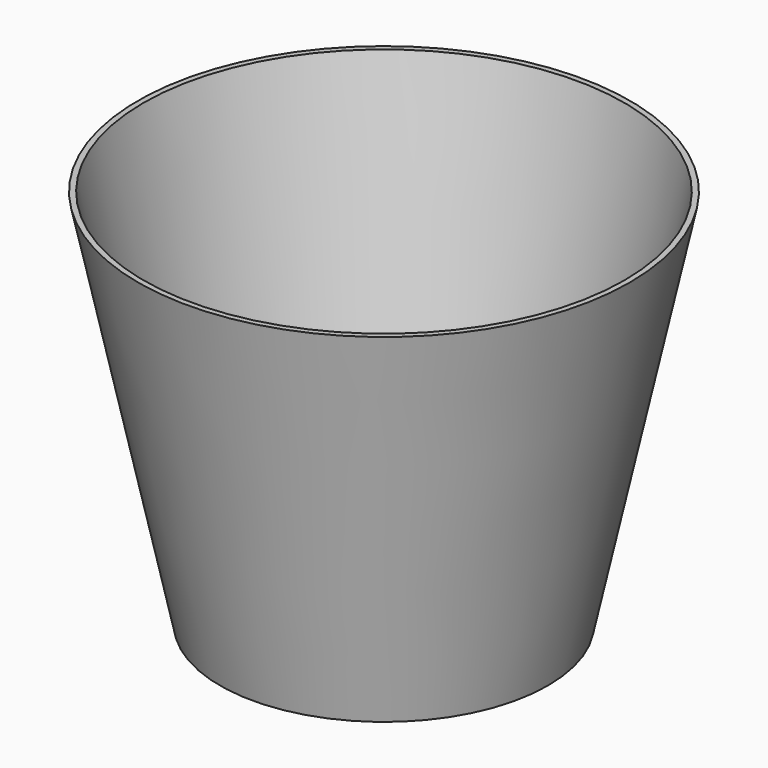
from build123d import *

# Parameters (mm, degrees)
F2_R = 114.3
F0_R = 76.2
F4_T = -2.54


with BuildPart() as f3:
    # F2 (on offset) → F3 section 0
    with BuildSketch(Plane.XY.offset(177.292)):
        Circle(F2_R)
    # F0 (on Top) → F3 section 1
    with BuildSketch(Plane.XY):
        Circle(F0_R)
    loft()

    # F4
    f4_openings = [f3.faces().sort_by_distance(p)[0] for p in [
        (0, 0, 177.292),
    ]]
    offset(amount=F4_T, openings=f4_openings, kind=Kind.INTERSECTION)


solid = f3.part
